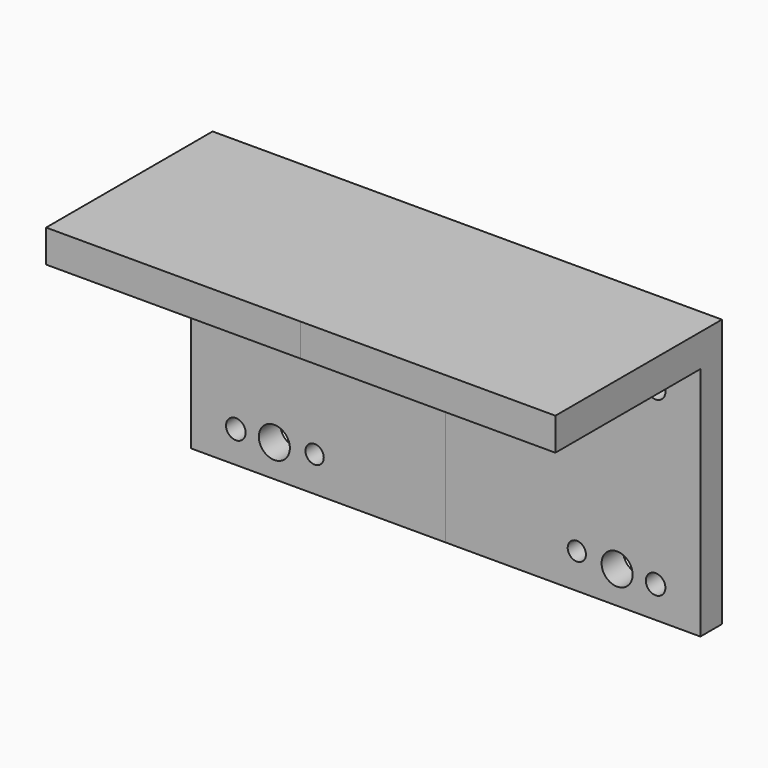
from build123d import *

# Parameters (mm, degrees)
F1_DEPTH = 63.5
F2_DEPTH = 63.5
F3_R     = 2.440759
F3_R_2   = 3.868434
F3_R_3   = 2.279206
F4_DEPTH = 25.4


with BuildPart() as f1:
    # F0 (on Right) → F1 (new body)
    with BuildSketch(Plane.YZ):
        Polygon((0, 0), (-51.902805, 0), (-51.902805, -8.131986), (-6.712981, -8.131986), (-6.712981, -66.856928), (0, -66.856928), align=None)
    extrude(amount=F1_DEPTH)

    # F1_face (on face) → F2 (join)
    with BuildSketch(Plane(origin=(0, -15.039437, -20.209903), x_dir=(0, 1, 0), z_dir=(-1, 0, 0))):
        Polygon((-36.863367, -20.209903), (15.039437, -20.209903), (15.039437, 46.647025), (8.326457, 46.647025), (8.326457, -12.077918), (-36.863367, -12.077918), align=None)
    extrude(amount=F2_DEPTH)

    # F3 (on face) → F4 (cut)
    with BuildSketch(Plane.XZ.offset(6.712981)):
        with Locations((-52.33942, -15.991084)):
            Circle(F3_R)
        with Locations((-42.733856, -16.209394)):
            Circle(F3_R_2)
        with Locations((-32.691672, -16.864318)):
            Circle(F3_R_3)
        with Locations((32.691672, -16.864318)):
            Circle(F3_R_3)
        with Locations((42.733856, -16.209394)):
            Circle(F3_R_2)
        with Locations((52.33942, -15.991084)):
            Circle(F3_R)
        with Locations((52.33942, -58.997829)):
            Circle(F3_R)
        with Locations((42.733856, -58.77952)):
            Circle(F3_R_2)
        with Locations((32.691672, -58.124595)):
            Circle(F3_R_3)
        with Locations((-52.33942, -58.997829)):
            Circle(F3_R)
        with Locations((-42.733856, -58.77952)):
            Circle(F3_R_2)
        with Locations((-32.691672, -58.124595)):
            Circle(F3_R_3)
    extrude(amount=-F4_DEPTH, mode=Mode.SUBTRACT)


solid = f1.part
